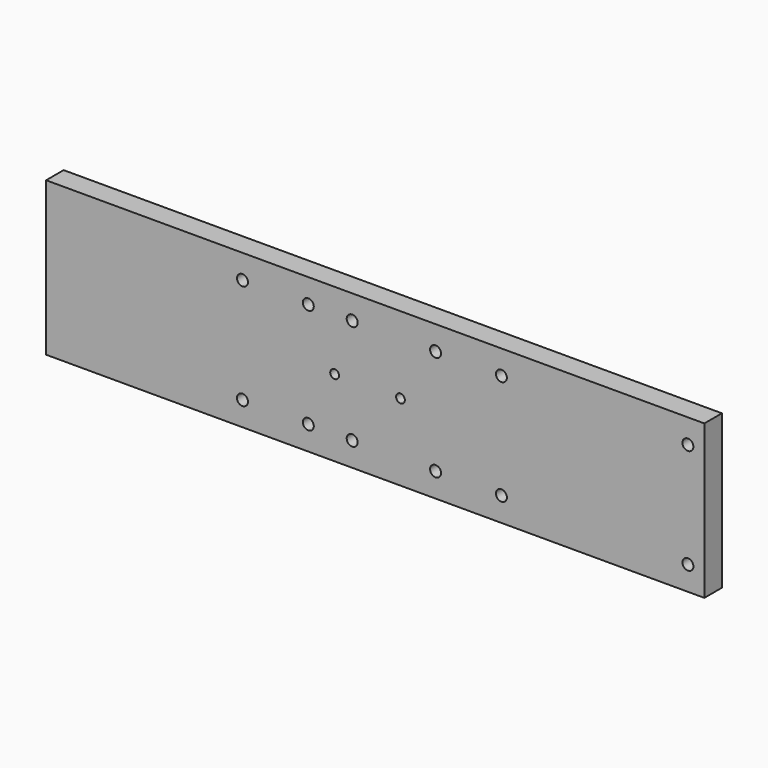
from build123d import *

# Parameters (mm, degrees)
F0_W     = 300
F0_H     = 70
F0_R     = 2.5
F0_R_2   = 2
F1_DEPTH = 10


with BuildPart() as f1:
    # F0 (on Front) → F1 (new body)
    with BuildSketch(Plane.XZ):
        with Locations((30.5, 16.277353)):
            Rectangle(F0_W, F0_H)
        with Locations((-30, -7.722647)):
            Circle(F0_R, mode=Mode.SUBTRACT)
        with Locations((0, -7.722647)):
            Circle(F0_R, mode=Mode.SUBTRACT)
        with Locations((20, -7.722647)):
            Circle(F0_R, mode=Mode.SUBTRACT)
        with Locations((58, -7.722647)):
            Circle(F0_R, mode=Mode.SUBTRACT)
        with Locations((88, -7.722647)):
            Circle(F0_R, mode=Mode.SUBTRACT)
        with Locations((173, -7.722647)):
            Circle(F0_R, mode=Mode.SUBTRACT)
        with Locations((12, 16.277353)):
            Circle(F0_R_2, mode=Mode.SUBTRACT)
        with Locations((-30, 40.277353)):
            Circle(F0_R, mode=Mode.SUBTRACT)
        with Locations((0, 40.277353)):
            Circle(F0_R, mode=Mode.SUBTRACT)
        with Locations((20, 40.277353)):
            Circle(F0_R, mode=Mode.SUBTRACT)
        with Locations((42, 16.277353)):
            Circle(F0_R_2, mode=Mode.SUBTRACT)
        with Locations((58, 40.277353)):
            Circle(F0_R, mode=Mode.SUBTRACT)
        with Locations((88, 40.277353)):
            Circle(F0_R, mode=Mode.SUBTRACT)
        with Locations((173, 40.277353)):
            Circle(F0_R, mode=Mode.SUBTRACT)
    extrude(amount=F1_DEPTH)


solid = f1.part
